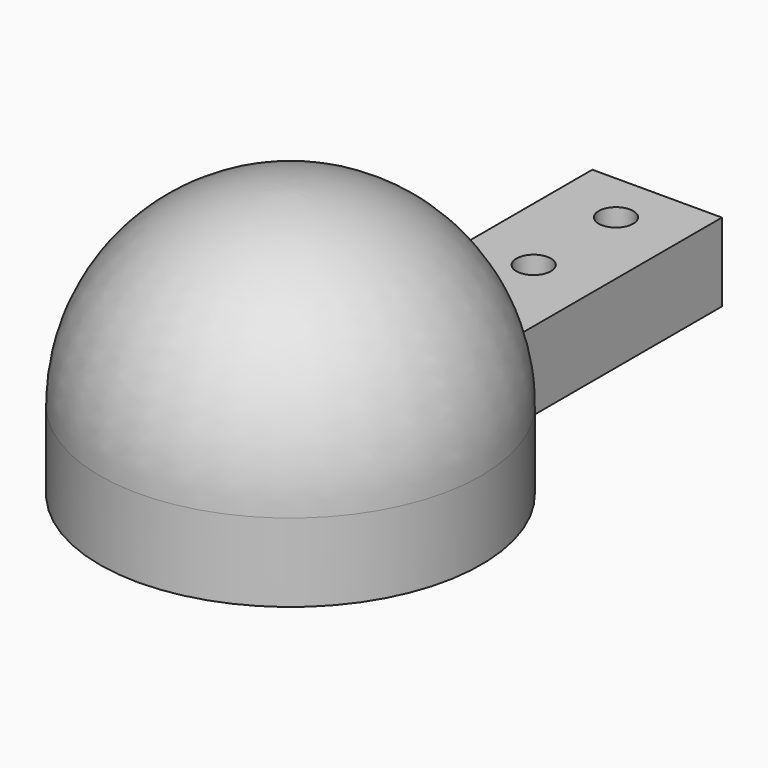
from build123d import *

# Parameters (mm, degrees)
SKETCH001_W       = 19.16
SKETCH001_H       = 49.52
EXTRUDE001_DEPTH  = 10
SKETCH138_W       = 24
SKETCH138_H       = 84.875
SKETCH138_R       = 3.2
EXTRUDE042_DEPTH  = 14.5
CYLINDER168_R     = 35.35
CYLINDER168_DEPTH = 14.5


with BuildPart() as extrude001:
    # Sketch001 → Extrude001 (new body)
    with BuildSketch(Plane.XY.offset(-14.5)):
        with Locations((0, 60.115)):
            Rectangle(SKETCH001_W, SKETCH001_H)
    extrude(amount=EXTRUDE001_DEPTH)


with BuildPart() as extrude042:
    # Sketch138 → Extrude042 (new body)
    with BuildSketch(Plane.XY):
        with Locations((0, 42.4375)):
            Rectangle(SKETCH138_W, SKETCH138_H)
        with Locations((0, 56.295)):
            Circle(SKETCH138_R, mode=Mode.SUBTRACT)
        with Locations((0, 75.345)):
            Circle(SKETCH138_R, mode=Mode.SUBTRACT)
    extrude(amount=-EXTRUDE042_DEPTH)


with BuildPart() as cylinder168:
    # Cylinder168 → Cylinder168 (new body)
    with BuildSketch(Plane(origin=(0, 0, 0), x_dir=(-1, 0, 0), z_dir=(0, 0, -1))):
        Circle(CYLINDER168_R)
    extrude(amount=CYLINDER168_DEPTH)


with BuildPart() as obj1:
    # Sphere → Sphere (revolve)
    with BuildSketch(Plane.XZ):
        with BuildLine():
            ThreePointArc((35.35, 0), (24.996225, 24.996225), (0, 35.35))
            Line((0, 35.35), (0, 0))
            Line((0, 0), (35.35, 0))
        make_face()
    revolve(axis=Axis((0, 0, 0), (0, 0, 1)))

    # Fusion107: union Extrude042, Cylinder168
    add(extrude042.part)
    add(cylinder168.part)

    # Cut057: cut Extrude001
    add(extrude001.part, mode=Mode.SUBTRACT)


with BuildPart() as obj1_1:
    # Cut057 placement: moved
    add(obj1.part.moved(Location((0, -450, -5.5))))


solid = obj1_1.part
